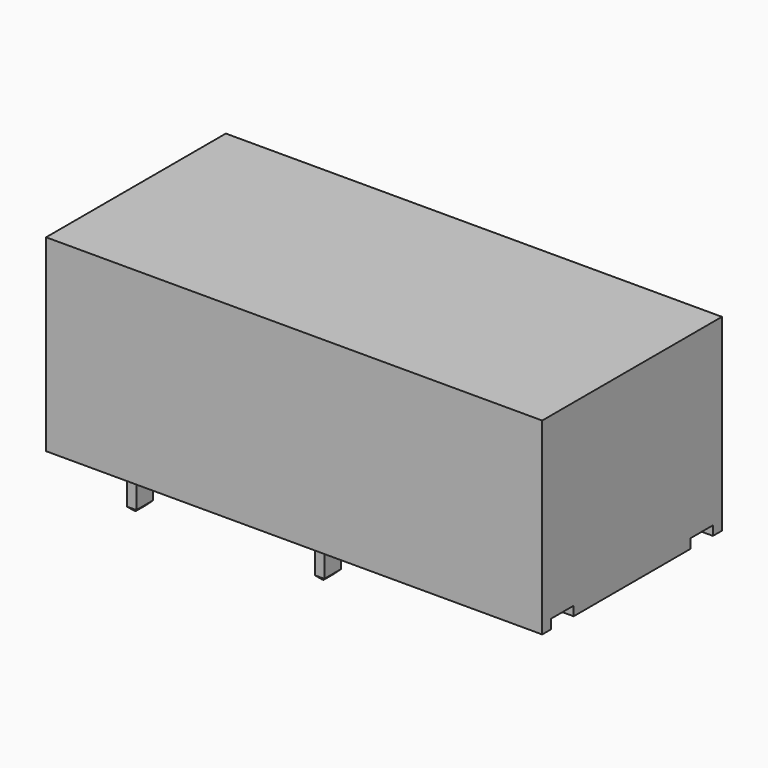
from build123d import *

# Parameters (mm, degrees)
PAD_DEPTH       = 26.5
PAD005_DEPTH    = 5
CHAMFER_SIZE    = 0.2
SKETCH006_R     = 1.8
PAD004_DEPTH    = 0.5
FILLET001_R     = 0.15
CHAMFER001_SIZE = 0.2


with BuildPart() as body:
    # Sketch → Pad (new body)
    with BuildSketch(Plane.YZ):
        Polygon((0, 0), (0.6, 0), (0.6, 0.5), (2.1, 0.5), (2.1, 0), (9.9, 0), (9.9, 0.5), (11.4, 0.5), (11.4, 0), (12, 0), (12, 10.06), (0, 10.06), align=None)
    extrude(amount=PAD_DEPTH)


with BuildPart() as body002:
    # Sketch004 (on Face1 of CopyPocket) → Pad005 (new body)
    with BuildSketch(Plane.YX):
        Polygon((6, 10.5), (6.55, 10.5), (6.55, 10), (5.45, 10), (5.45, 10.5), align=None)
    extrude(amount=PAD005_DEPTH)

    # Chamfer
    chamfer_edges = [body002.edges().sort_by_distance(p)[0] for p in [
        (10.5, 6.275, -5),
        (10.25, 6.55, -5),
        (10, 6, -5),
        (10.25, 5.45, -5),
        (10.5, 5.725, -5),
    ]]
    chamfer(chamfer_edges, length=CHAMFER_SIZE)


with BuildPart() as body003:
    # Sketch006 (on Face1 of CopyPocket001) → Pad004 (new body)
    with BuildSketch(Plane(origin=(0, 0, 0), x_dir=(0, -1, 0), z_dir=(-1, 0, 0))):
        with BuildLine():
            ThreePointArc((-4, 3.5), (-6, 7.5), (-8, 3.5))
            Line((-8, 3.5), (-8, 0))
            Line((-8, 0), (-6.5, 0))
            Line((-6.5, 0), (-6.5, -5))
            Line((-6.5, -5), (-5.4, -5))
            Line((-5.4, -5), (-5.4, 0))
            Line((-5.4, 0), (-4, 0))
            Line((-4, 0), (-4, 3.5))
        make_face()
        with Locations((-6, 5)):
            Circle(SKETCH006_R, mode=Mode.SUBTRACT)
    extrude(amount=PAD004_DEPTH)

    # Fillet001
    fillet001_edges = [body003.edges().sort_by_distance(p)[0] for p in [
        (-0.5, 7.8, 5),
    ]]
    fillet(fillet001_edges, radius=FILLET001_R)

    # Chamfer001
    chamfer001_edges = [body003.edges().sort_by_distance(p)[0] for p in [
        (-0.25, 6.5, -5),
        (-0.25, 5.4, -5),
        (0, 5.95, -5),
        (-0.5, 5.95, -5),
    ]]
    chamfer(chamfer001_edges, length=CHAMFER001_SIZE)


with BuildPart() as body003_1:
    # Body003 placement: moved
    add(body003.part.moved(Location((0.5, 0, 0))))


solid = Compound([body.part, body002.part, body003_1.part])
